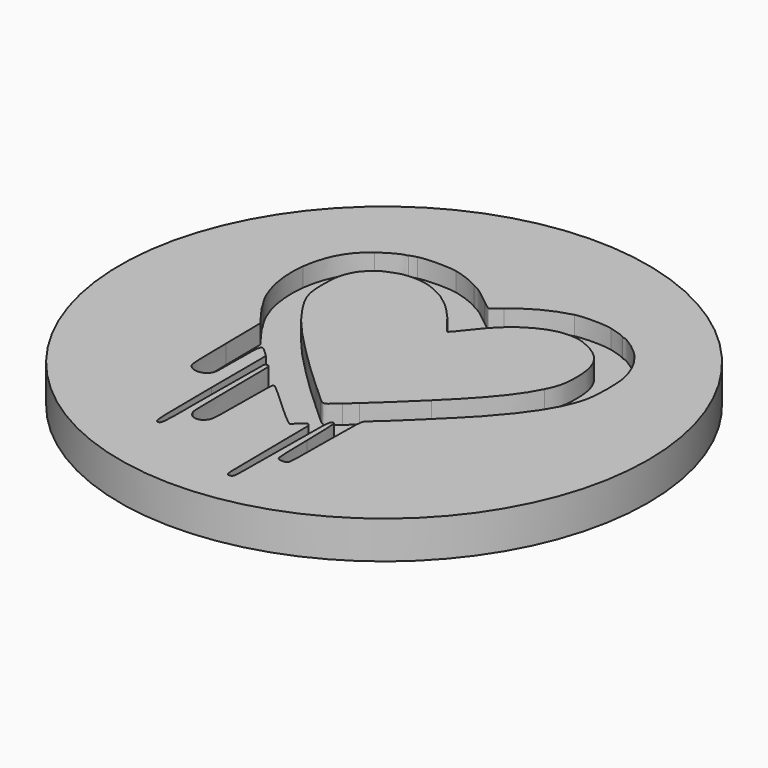
from build123d import *

# Parameters (mm, degrees)
SKETCH001_R  = 70
PAD_DEPTH    = 10
POCKET_DEPTH = 5


with BuildPart() as part:
    # Sketch001 (on DatumPlane) → Pad (new body)
    with BuildSketch(Plane.XY):
        Circle(SKETCH001_R)
    extrude(amount=-PAD_DEPTH)

    # Sketch (on DatumPlane) → Pocket (cut)
    with BuildSketch(Plane(origin=(-60, -80, 0), x_dir=(1, 0, 0), z_dir=(0, 0, 1))):
        with BuildLine():
            add(Edge.make_bspline(
                [(35.798125, 121.258542), (34.898542, 121.020417), (34.078333, 120.729375), (33.9725, 120.623542)],
                knots=[0, 0, 0, 0, 1, 1, 1, 1], degree=3))
            add(Edge.make_bspline(
                [(33.9725, 120.623542), (33.866667, 120.517708), (33.602083, 120.438333), (33.390417, 120.438333)],
                knots=[0, 0, 0, 0, 1, 1, 1, 1], degree=3))
            add(Edge.make_bspline(
                [(33.390417, 120.438333), (32.649583, 120.438333), (29.474583, 118.745), (27.596042, 117.369167)],
                knots=[0, 0, 0, 0, 1, 1, 1, 1], degree=3))
            add(Edge.make_bspline(
                [(27.596042, 117.369167), (23.256875, 114.14125), (20.79625, 109.616875), (19.923125, 103.134583)],
                knots=[0, 0, 0, 0, 1, 1, 1, 1], degree=3))
            add(Edge.make_bspline(
                [(19.923125, 103.134583), (19.102917, 96.969792), (20.6375, 89.878958), (23.8125, 85.142917)],
                knots=[0, 0, 0, 0, 1, 1, 1, 1], degree=3))
            add(Edge.make_bspline(
                [(23.8125, 85.142917), (24.262292, 84.507917), (24.60625, 83.899375), (24.60625, 83.82)],
                knots=[0, 0, 0, 0, 1, 1, 1, 1], degree=3))
            add(Edge.make_bspline(
                [(24.60625, 83.82), (24.60625, 83.66125), (25.135417, 82.920417), (28.09875, 78.925208)],
                knots=[0, 0, 0, 0, 1, 1, 1, 1], degree=3))
            add(Edge.make_bspline(
                [(28.09875, 78.925208), (28.971875, 77.761042)],
                knots=[0, 0, 55, 55], degree=1))
            add(Edge.make_bspline(
                [(28.971875, 77.761042), (29.104167, 66.225208)],
                knots=[0, 0, 436.028669, 436.028669], degree=1))
            add(Edge.make_bspline(
                [(29.104167, 66.225208), (29.236458, 55.218542), (29.262917, 54.662917), (29.765625, 53.975)],
                knots=[0, 0, 0, 0, 1, 1, 1, 1], degree=3))
            add(Edge.make_bspline(
                [(29.765625, 53.975), (30.95625, 52.334583), (33.734375, 52.361042), (34.845625, 54.001458)],
                knots=[0, 0, 0, 0, 1, 1, 1, 1], degree=3))
            add(Edge.make_bspline(
                [(34.845625, 54.001458), (35.427708, 54.874583), (35.454167, 55.059792), (35.454167, 61.833125)],
                knots=[0, 0, 0, 0, 1, 1, 1, 1], degree=3))
            add(Edge.make_bspline(
                [(35.454167, 61.833125), (35.454167, 70.32625), (35.480625, 70.405625), (37.597292, 68.394792)],
                knots=[0, 0, 0, 0, 1, 1, 1, 1], degree=3))
            add(Edge.make_bspline(
                [(37.597292, 68.394792), (39.026042, 67.045417)],
                knots=[0, 0, 74.27651, 74.27651], degree=1))
            add(Edge.make_bspline(
                [(39.026042, 67.045417), (39.078958, 48.868542)],
                knots=[0, 0, 687.002911, 687.002911], degree=1))
            add(Edge.make_bspline(
                [(39.078958, 48.868542), (39.131875, 30.400625), (39.158333, 29.950833), (40.084375, 29.950833)],
                knots=[0, 0, 0, 0, 1, 1, 1, 1], degree=3))
            add(Edge.make_bspline(
                [(40.084375, 29.950833), (41.036875, 29.950833), (41.063333, 30.400625), (41.036875, 46.83125)],
                knots=[0, 0, 0, 0, 1, 1, 1, 1], degree=3))
            add(Edge.make_bspline(
                [(41.036875, 46.83125), (41.036875, 55.72125), (41.11625, 63.208958), (41.195625, 63.526458)],
                knots=[0, 0, 0, 0, 1, 1, 1, 1], degree=3))
            add(Edge.make_bspline(
                [(41.195625, 63.526458), (41.354375, 64.187917), (42.201042, 64.267292), (42.439167, 63.65875)],
                knots=[0, 0, 0, 0, 1, 1, 1, 1], degree=3))
            add(Edge.make_bspline(
                [(42.439167, 63.65875), (42.518542, 63.420625), (42.597917, 57.811458), (42.597917, 51.196875)],
                knots=[0, 0, 0, 0, 1, 1, 1, 1], degree=3))
            add(Edge.make_bspline(
                [(42.597917, 51.196875), (42.597917, 42.70375), (42.677292, 38.840833), (42.915417, 38.1)],
                knots=[0, 0, 0, 0, 1, 1, 1, 1], degree=3))
            add(Edge.make_bspline(
                [(42.915417, 38.1), (43.682708, 35.507083), (46.751875, 35.295417), (47.78375, 37.7825)],
                knots=[0, 0, 0, 0, 1, 1, 1, 1], degree=3))
            add(Edge.make_bspline(
                [(47.78375, 37.7825), (48.074792, 38.470417), (48.154167, 40.613542), (48.154167, 48.048333)],
                knots=[0, 0, 0, 0, 1, 1, 1, 1], degree=3))
            add(Edge.make_bspline(
                [(48.154167, 48.048333), (48.154167, 53.975), (48.26, 57.493958), (48.41875, 57.599792)],
                knots=[0, 0, 0, 0, 1, 1, 1, 1], degree=3))
            add(Edge.make_bspline(
                [(48.41875, 57.599792), (48.551042, 57.679167), (48.842083, 57.652708), (49.05375, 57.546875)],
                knots=[0, 0, 0, 0, 1, 1, 1, 1], degree=3))
            add(Edge.make_bspline(
                [(49.05375, 57.546875), (49.344792, 57.388125), (52.519792, 54.530625), (55.033333, 52.175833)],
                knots=[0, 0, 0, 0, 1, 1, 1, 1], degree=3))
            add(Edge.make_bspline(
                [(55.033333, 52.175833), (57.4675, 49.900417), (60.589583, 47.14875), (61.198125, 46.751875)],
                knots=[0, 0, 0, 0, 1, 1, 1, 1], degree=3))
            add(Edge.make_bspline(
                [(61.198125, 46.751875), (61.9125, 46.302083)],
                knots=[0, 0, 31.906112, 31.906112], degree=1))
            add(Edge.make_bspline(
                [(61.9125, 46.302083), (63.235417, 47.519167)],
                knots=[0, 0, 67.941151, 67.941151], degree=1))
            add(Edge.make_bspline(
                [(63.235417, 47.519167), (63.949792, 48.180625), (64.717083, 48.73625), (64.902292, 48.73625)],
                knots=[0, 0, 0, 0, 1, 1, 1, 1], degree=3))
            add(Edge.make_bspline(
                [(64.902292, 48.73625), (65.113958, 48.73625), (65.352083, 48.365833), (65.457917, 47.916042)],
                knots=[0, 0, 0, 0, 1, 1, 1, 1], degree=3))
            add(Edge.make_bspline(
                [(65.457917, 47.916042), (65.537292, 47.46625), (65.616667, 41.222083), (65.616667, 34.051875)],
                knots=[0, 0, 0, 0, 1, 1, 1, 1], degree=3))
            add(Edge.make_bspline(
                [(65.616667, 34.051875), (65.616667, 22.992292), (65.669583, 20.981458), (66.013542, 20.690417)],
                knots=[0, 0, 0, 0, 1, 1, 1, 1], degree=3))
            add(Edge.make_bspline(
                [(66.013542, 20.690417), (66.595625, 20.214167), (67.283542, 20.47875), (67.495208, 21.298958)],
                knots=[0, 0, 0, 0, 1, 1, 1, 1], degree=3))
            add(Edge.make_bspline(
                [(67.495208, 21.298958), (67.601042, 21.722292), (67.706875, 28.654375), (67.706875, 36.697708)],
                knots=[0, 0, 0, 0, 1, 1, 1, 1], degree=3))
            add(Edge.make_bspline(
                [(67.706875, 36.697708), (67.706875, 51.778958), (67.759792, 52.572708), (68.73875, 52.3875)],
                knots=[0, 0, 0, 0, 1, 1, 1, 1], degree=3))
            add(Edge.make_bspline(
                [(68.73875, 52.3875), (69.135625, 52.308125), (69.188542, 51.435), (69.320833, 42.756667)],
                knots=[0, 0, 0, 0, 1, 1, 1, 1], degree=3))
            add(Edge.make_bspline(
                [(69.320833, 42.756667), (69.426667, 35.189583), (69.5325, 33.125833), (69.823542, 32.781875)],
                knots=[0, 0, 0, 0, 1, 1, 1, 1], degree=3))
            add(Edge.make_bspline(
                [(69.823542, 32.781875), (70.352708, 32.146875), (72.125417, 32.173333), (72.469375, 32.834792)],
                knots=[0, 0, 0, 0, 1, 1, 1, 1], degree=3))
            add(Edge.make_bspline(
                [(72.469375, 32.834792), (72.654583, 33.152292), (72.760417, 37.465), (72.760417, 44.502917)],
                knots=[0, 0, 0, 0, 1, 1, 1, 1], degree=3))
            add(Edge.make_bspline(
                [(72.760417, 44.502917), (72.786875, 56.171042), (72.839792, 56.779583), (73.951042, 57.388125)],
                knots=[0, 0, 0, 0, 1, 1, 1, 1], degree=3))
            add(Edge.make_bspline(
                [(73.951042, 57.388125), (74.982917, 57.970208), (87.524167, 70.1675), (90.884375, 73.871667)],
                knots=[0, 0, 0, 0, 1, 1, 1, 1], degree=3))
            add(Edge.make_bspline(
                [(90.884375, 73.871667), (98.081042, 81.782708), (101.891042, 87.9475), (103.081667, 93.688958)],
                knots=[0, 0, 0, 0, 1, 1, 1, 1], degree=3))
            add(Edge.make_bspline(
                [(103.081667, 93.688958), (103.66375, 96.440625), (103.66375, 102.949375), (103.081667, 105.674583)],
                knots=[0, 0, 0, 0, 1, 1, 1, 1], degree=3))
            add(Edge.make_bspline(
                [(103.081667, 105.674583), (102.235, 109.69625), (100.17125, 113.426875), (97.287292, 116.099167)],
                knots=[0, 0, 0, 0, 1, 1, 1, 1], degree=3))
            add(Edge.make_bspline(
                [(97.287292, 116.099167), (95.673333, 117.607292), (92.630625, 119.644583), (91.969167, 119.644583)],
                knots=[0, 0, 0, 0, 1, 1, 1, 1], degree=3))
            add(Edge.make_bspline(
                [(91.969167, 119.644583), (91.810417, 119.644583), (91.545833, 119.750417), (91.387083, 119.85625)],
                knots=[0, 0, 0, 0, 1, 1, 1, 1], degree=3))
            add(Edge.make_bspline(
                [(91.387083, 119.85625), (91.043125, 120.17375), (89.05875, 120.861667), (87.100833, 121.337917)],
                knots=[0, 0, 0, 0, 1, 1, 1, 1], degree=3))
            add(Edge.make_bspline(
                [(87.100833, 121.337917), (84.878333, 121.893542), (79.613125, 121.893542), (77.417083, 121.364375)],
                knots=[0, 0, 0, 0, 1, 1, 1, 1], degree=3))
            add(Edge.make_bspline(
                [(77.417083, 121.364375), (72.575208, 120.120833), (68.368333, 117.924792), (64.29375, 114.45875)],
                knots=[0, 0, 0, 0, 1, 1, 1, 1], degree=3))
            add(Edge.make_bspline(
                [(64.29375, 114.45875), (63.02375, 113.373958), (61.859583, 112.500833), (61.674375, 112.500833)],
                knots=[0, 0, 0, 0, 1, 1, 1, 1], degree=3))
            add(Edge.make_bspline(
                [(61.674375, 112.500833), (61.515625, 112.500833), (60.325, 113.373958), (59.055, 114.432292)],
                knots=[0, 0, 0, 0, 1, 1, 1, 1], degree=3))
            add(Edge.make_bspline(
                [(59.055, 114.432292), (56.858958, 116.284375), (54.45125, 118.057083), (54.13375, 118.057083)],
                knots=[0, 0, 0, 0, 1, 1, 1, 1], degree=3))
            add(Edge.make_bspline(
                [(54.13375, 118.057083), (54.054375, 118.057083), (53.419375, 118.401042), (52.731458, 118.824375)],
                knots=[0, 0, 0, 0, 1, 1, 1, 1], degree=3))
            add(Edge.make_bspline(
                [(52.731458, 118.824375), (51.170417, 119.750417), (48.339375, 120.80875), (45.958125, 121.364375)],
                knots=[0, 0, 0, 0, 1, 1, 1, 1], degree=3))
            add(Edge.make_bspline(
                [(45.958125, 121.364375), (43.550417, 121.893542), (38.020625, 121.840625), (35.798125, 121.258542)],
                knots=[0, 0, 0, 0, 1, 1, 1, 1], degree=3))
        make_face()
        with BuildLine():
            add(Edge.make_bspline(
                [(45.984583, 112.686042), (47.836667, 112.024583), (50.429583, 110.675208), (51.143958, 110.040208)],
                knots=[0, 0, 0, 0, 1, 1, 1, 1], degree=3))
            add(Edge.make_bspline(
                [(51.143958, 110.040208), (51.302708, 109.855), (51.990625, 109.37875), (52.599167, 108.928958)],
                knots=[0, 0, 0, 0, 1, 1, 1, 1], degree=3))
            add(Edge.make_bspline(
                [(52.599167, 108.928958), (54.239583, 107.844167), (57.837917, 103.928333), (59.69, 101.2825)],
                knots=[0, 0, 0, 0, 1, 1, 1, 1], degree=3))
            add(Edge.make_bspline(
                [(59.69, 101.2825), (60.536667, 100.038958), (61.43625, 99.007083), (61.647917, 99.007083)],
                knots=[0, 0, 0, 0, 1, 1, 1, 1], degree=3))
            add(Edge.make_bspline(
                [(61.647917, 99.007083), (61.859583, 99.033542), (63.050208, 100.409375), (64.29375, 102.07625)],
                knots=[0, 0, 0, 0, 1, 1, 1, 1], degree=3))
            add(Edge.make_bspline(
                [(64.29375, 102.07625), (68.73875, 108.135208), (73.633542, 111.812917), (79.110417, 113.18875)],
                knots=[0, 0, 0, 0, 1, 1, 1, 1], degree=3))
            add(Edge.make_bspline(
                [(79.110417, 113.18875), (81.544583, 113.797292), (84.640208, 113.612083), (86.651042, 112.791875)],
                knots=[0, 0, 0, 0, 1, 1, 1, 1], degree=3))
            add(Edge.make_bspline(
                [(86.651042, 112.791875), (93.0275, 110.146042), (95.25, 106.706458), (95.25, 99.509792)],
                knots=[0, 0, 0, 0, 1, 1, 1, 1], degree=3))
            add(Edge.make_bspline(
                [(95.25, 99.509792), (95.25, 96.2025), (94.853125, 94.429792), (93.397917, 91.466458)],
                knots=[0, 0, 0, 0, 1, 1, 1, 1], degree=3))
            add(Edge.make_bspline(
                [(93.397917, 91.466458), (90.96375, 86.412917), (86.492292, 80.9625), (78.26375, 72.945625)],
                knots=[0, 0, 0, 0, 1, 1, 1, 1], degree=3))
            add(Edge.make_bspline(
                [(78.26375, 72.945625), (73.236667, 68.050833), (70.64375, 65.590208), (67.362917, 62.626875)],
                knots=[0, 0, 0, 0, 1, 1, 1, 1], degree=3))
            add(Edge.make_bspline(
                [(67.362917, 62.626875), (66.066458, 61.462708), (64.875833, 60.404375), (64.717083, 60.245625)],
                knots=[0, 0, 0, 0, 1, 1, 1, 1], degree=3))
            add(Edge.make_bspline(
                [(64.717083, 60.245625), (61.515625, 57.335208), (61.75375, 57.388125), (59.663542, 59.293125)],
                knots=[0, 0, 0, 0, 1, 1, 1, 1], degree=3))
            add(Edge.make_bspline(
                [(59.663542, 59.293125), (58.922708, 59.954583), (57.15, 61.595), (55.694792, 62.891458)],
                knots=[0, 0, 0, 0, 1, 1, 1, 1], degree=3))
            add(Edge.make_bspline(
                [(55.694792, 62.891458), (50.932292, 67.204167), (48.868542, 69.188542), (44.026667, 74.003958)],
                knots=[0, 0, 0, 0, 1, 1, 1, 1], degree=3))
            add(Edge.make_bspline(
                [(44.026667, 74.003958), (37.729583, 80.274583), (34.316458, 84.216875), (31.697083, 88.291458)],
                knots=[0, 0, 0, 0, 1, 1, 1, 1], degree=3))
            add(Edge.make_bspline(
                [(31.697083, 88.291458), (28.786667, 92.789375), (28.204583, 94.667917), (28.204583, 99.668542)],
                knots=[0, 0, 0, 0, 1, 1, 1, 1], degree=3))
            add(Edge.make_bspline(
                [(28.204583, 99.668542), (28.204583, 103.66375), (28.575, 105.41), (30.030208, 107.897083)],
                knots=[0, 0, 0, 0, 1, 1, 1, 1], degree=3))
            add(Edge.make_bspline(
                [(30.030208, 107.897083), (30.876875, 109.352292), (33.284583, 111.495417), (34.581042, 111.945208)],
                knots=[0, 0, 0, 0, 1, 1, 1, 1], degree=3))
            add(Edge.make_bspline(
                [(34.581042, 111.945208), (35.136667, 112.130417), (35.956875, 112.447917), (36.380208, 112.659583)],
                knots=[0, 0, 0, 0, 1, 1, 1, 1], degree=3))
            add(Edge.make_bspline(
                [(36.380208, 112.659583), (38.814375, 113.770833), (42.888958, 113.770833), (45.984583, 112.686042)],
                knots=[0, 0, 0, 0, 1, 1, 1, 1], degree=3))
        make_face(mode=Mode.SUBTRACT)
    extrude(amount=-POCKET_DEPTH, mode=Mode.SUBTRACT)


solid = part.part
